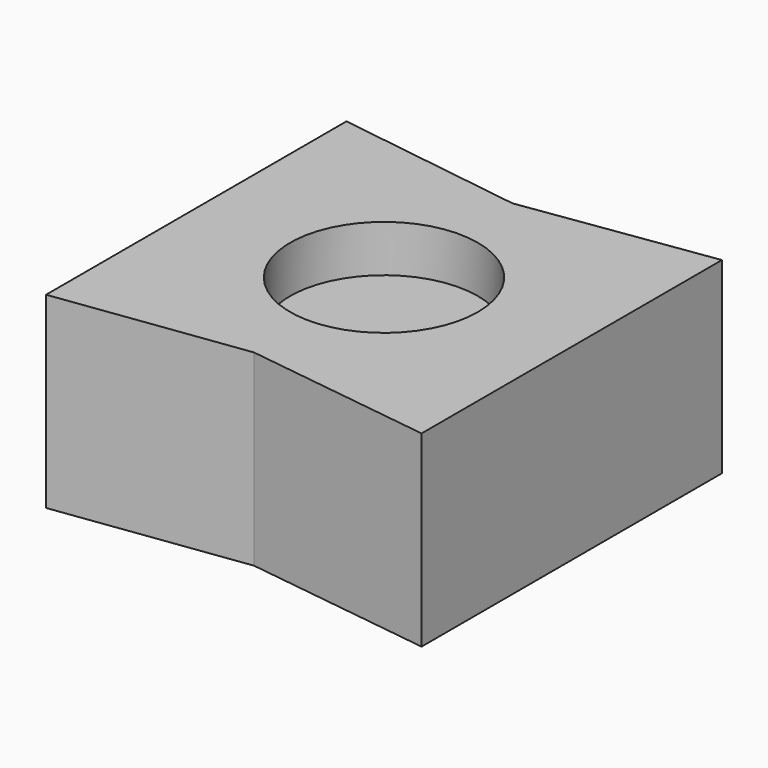
from build123d import *

# Parameters (mm, degrees)
F1_DEPTH = 15
F2_R     = 10
F3_DEPTH = 5


with BuildPart() as f1:
    # F0 (on Top) → F1 (new body)
    with BuildSketch(Plane.XY):
        Polygon((-20, 20), (-20, 0), (-20, -20), (0, -17.316176), (20, -20), (20, 20), (0, 17.095588), align=None)
    extrude(amount=F1_DEPTH)

    # F2 (on face) → F3 (join)
    with BuildSketch(Plane.XY.offset(15)):
        Polygon((20, 20), (0, 17.095588), (-20, 20), (-20, -20), (0, -17.316176), (20, -20), align=None)
        Circle(F2_R, mode=Mode.SUBTRACT)
    extrude(amount=F3_DEPTH)


solid = f1.part
